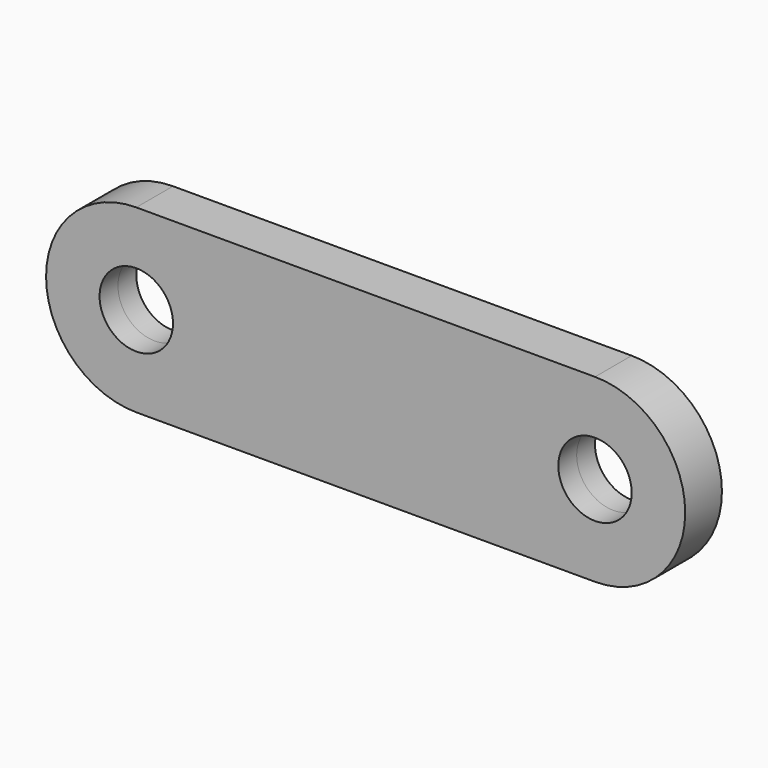
from build123d import *

# Parameters (mm, degrees)
F0_R     = 4
F1_DEPTH = 2.5


with BuildPart() as f1:
    # F0 (on Front) → F1 (new body, symmetric)
    with BuildSketch(Plane.XZ):
        with BuildLine():
            Line((24.9936, 9.8298), (0, 9.8298))
            Line((0, 9.8298), (-24.9936, 9.8298))
            ThreePointArc((-24.9936, 9.8298), (-34.8234, 0), (-24.9936, -9.8298))
            Line((-24.9936, -9.8298), (0, -9.8298))
            Line((0, -9.8298), (24.9936, -9.8298))
            ThreePointArc((24.9936, -9.8298), (34.8234, 0), (24.9936, 9.8298))
        make_face()
        with Locations((-24.9936, 0)):
            Circle(F0_R, mode=Mode.SUBTRACT)
        with BuildLine():
            ThreePointArc((28.9936, 0), (24.9936, -4), (20.9936, 0))
            ThreePointArc((20.9936, 0), (24.9936, 4), (28.9936, 0))
        make_face(mode=Mode.SUBTRACT)
    extrude(amount=F1_DEPTH, both=True)


solid = f1.part
